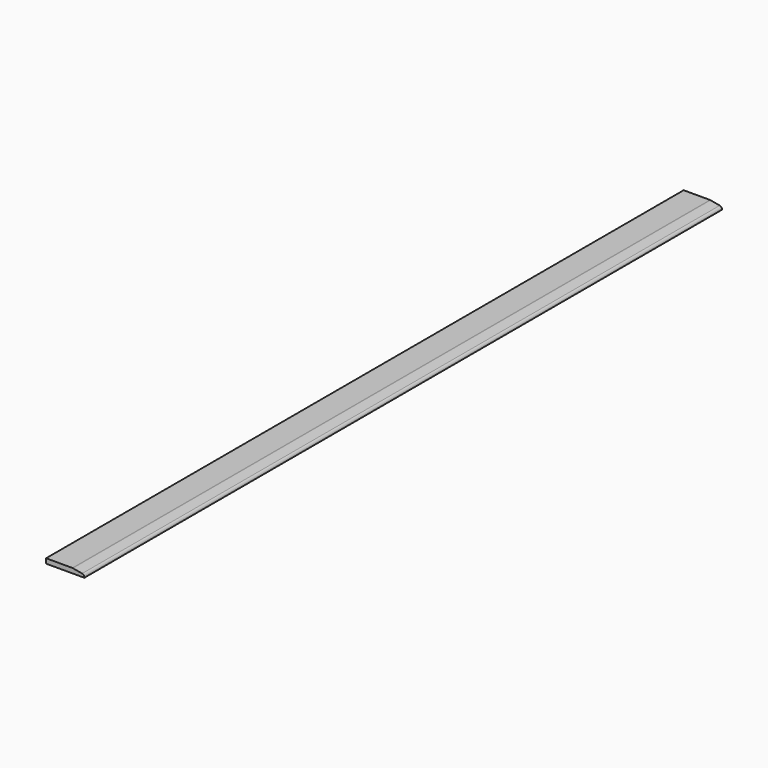
from build123d import *

# Parameters (mm, degrees)
F1_DEPTH = 1500


with BuildPart() as f1:
    # F0 (on Front) → F1 (new body, symmetric)
    with BuildSketch(Plane.XZ):
        with BuildLine():
            Line((-44.1159044445, 18), (-44.1159044445, 0))
            Line((-44.1159044445, 0), (99.8750251315, 0))
            Line((99.8750251315, 0), (99.8750251315, 1.6545442854))
            ThreePointArc((99.8750251315, 1.6545442854), (97.5526586916, 8.0618793723), (91.6642365482, 11.4931784643))
            Line((91.6642365482, 11.4931784643), (56.7714246145, 17.8386341789))
            ThreePointArc((56.7714246145, 17.8386341789), (55.8804498623, 17.9595768431), (54.9822131977, 18))
            Line((54.9822131977, 18), (-44.1159044445, 18))
        make_face()
    extrude(amount=F1_DEPTH, both=True)


solid = f1.part
